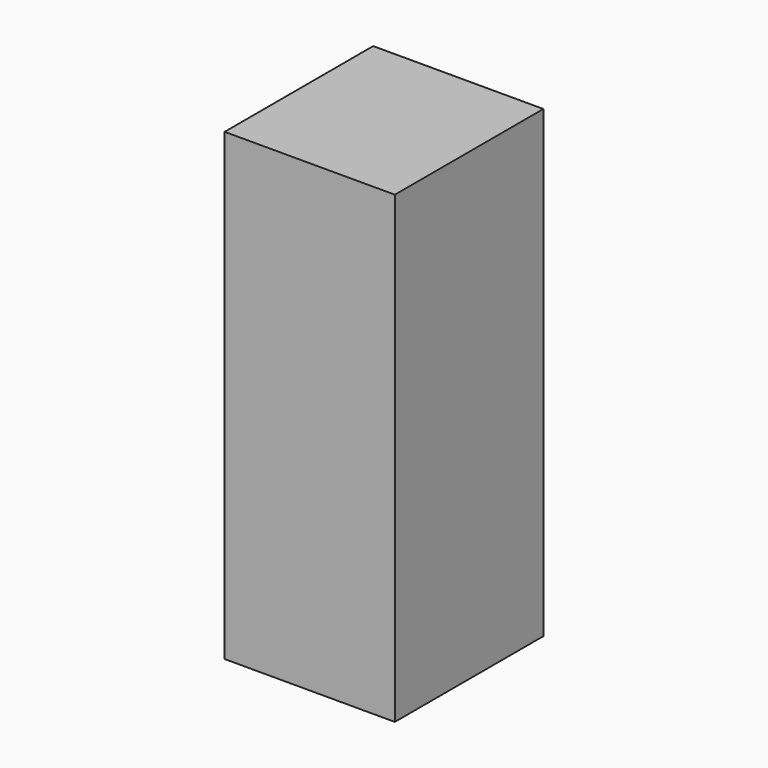
from build123d import *

# Parameters (mm, degrees)
CYLINDER_R     = 10
CYLINDER_DEPTH = 60
BOX_W          = 22
BOX_H          = 24
BOX_DEPTH      = 60


with BuildPart() as cilindro:
    # Cylinder → Cylinder (new body)
    with BuildSketch(Plane(origin=(-50, -12, -15), x_dir=(1, 0, 0), z_dir=(0, 0, 1))):
        Circle(CYLINDER_R)
    extrude(amount=CYLINDER_DEPTH)


with BuildPart() as cut:
    # Box → Box (new body)
    with BuildSketch(Plane(origin=(-62, -24, -10), x_dir=(1, 0, 0), z_dir=(0, 0, 1))):
        with Locations((11, 12)):
            Rectangle(BOX_W, BOX_H)
    extrude(amount=BOX_DEPTH)

    # Cut: cut Cilindro
    add(cilindro.part, mode=Mode.SUBTRACT)


solid = cut.part
